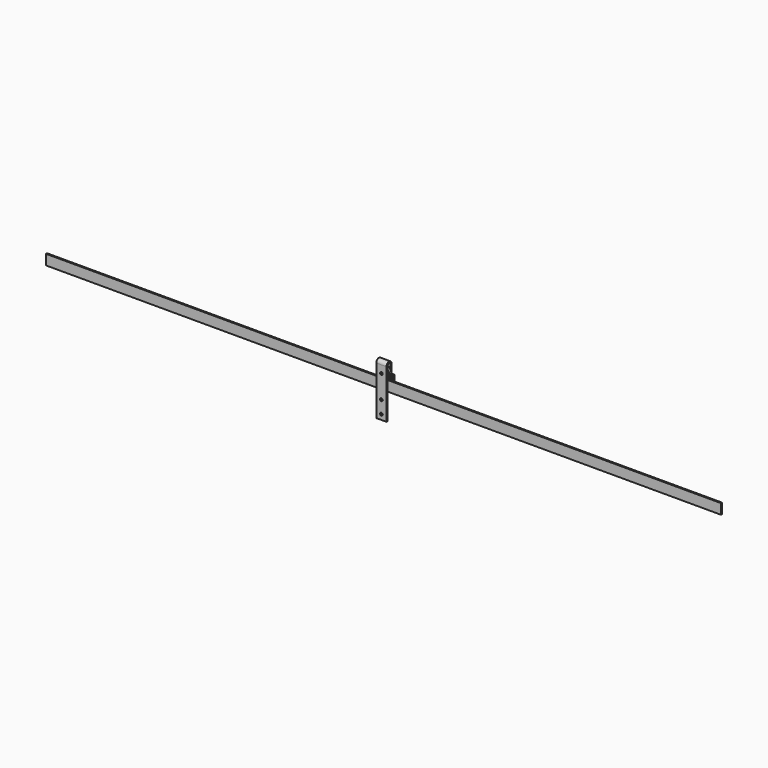
from build123d import *

# Parameters (mm, degrees)
F3_DEPTH = 838.2
F4_DEPTH = 12.7
F5_DEPTH = 12.7
F7_D     = 6.7564
F9_D     = 6.7564


with BuildPart() as f1:
    # F0 (on Right) → F1 (revolve)
    with BuildSketch(Plane.YZ):
        with BuildLine():
            Line((-4.7625, 4.572), (-4.7625, 3.2131))
            Line((-4.7625, 3.2131), (4.7625, 3.2131))
            Line((4.7625, 3.2131), (4.7625, 4.572))
            Line((4.7625, 4.572), (2.9718, 4.572))
            Line((2.9718, 4.572), (2.9718, 8.3439))
            Line((2.9718, 8.3439), (4.1148, 8.3439))
            Line((4.1148, 8.3439), (4.1148, 15.875))
            Line((4.1148, 15.875), (2.9718, 15.875))
            ThreePointArc((2.9718, 15.875), (0, 12.9032), (-2.9718, 15.875))
            Line((-2.9718, 15.875), (-4.1148, 15.875))
            Line((-4.1148, 15.875), (-4.1148, 8.3439))
            Line((-4.1148, 8.3439), (-2.9718, 8.3439))
            Line((-2.9718, 8.3439), (-2.9718, 4.572))
            Line((-2.9718, 4.572), (-4.7625, 4.572))
        make_face()
    revolve(axis=Axis((0, 0.9060123301, 0), (0, 1, 0)))


with BuildPart() as f3:
    # F2 (on Right) → F3 (new body, symmetric)
    with BuildSketch(Plane.YZ):
        Polygon((-1.5875, -38.8874), (1.5875, -38.8874), (1.5875, -34.1249), (1.5875, -30.9499), (1.5875, -13.4874), (-1.5875, -13.4874), align=None)
    extrude(amount=F3_DEPTH, both=True)


with BuildPart() as f4:
    # F2 (on Right) → F4 (new body, symmetric)
    with BuildSketch(Plane.YZ):
        with BuildLine():
            Line((4.8895, 19.05), (4.8895, -25.4))
            Line((4.8895, -25.4), (8.0645, -25.4))
            Line((8.0645, -25.4), (8.0645, 19.05))
            ThreePointArc((8.0645, 19.05), (0, 27.1145), (-8.0645, 19.05))
            Line((-8.0645, 19.05), (-8.0645, -101.6))
            Line((-8.0645, -101.6), (-4.8895, -101.6))
            Line((-4.8895, -101.6), (-4.8895, 19.05))
            ThreePointArc((-4.8895, 19.05), (0, 23.9395), (4.8895, 19.05))
        make_face()
    extrude(amount=F4_DEPTH, both=True)

    # F7 (through all)
    with Locations(Plane.XZ.offset(8.0645)):
        with Locations((0, 0), (0, -57.15), (0, -88.9)):
            Hole(F7_D / 2)


with BuildPart() as f5:
    # F2 (on Right) → F5 (new body, symmetric)
    with BuildSketch(Plane.YZ):
        with BuildLine():
            Line((1.5875, -30.9499), (1.5875, -34.1249))
            Line((1.5875, -34.1249), (17.4625, -34.1249))
            Line((17.4625, -34.1249), (17.4625, -8.7249))
            Line((17.4625, -8.7249), (14.2875, -8.7249))
            Line((14.2875, -8.7249), (14.2875, -27.7749))
            ThreePointArc((14.2875, -27.7749), (13.3575640303, -30.0199640303), (11.1125, -30.9499))
            Line((11.1125, -30.9499), (1.5875, -30.9499))
        make_face()
    extrude(amount=F5_DEPTH, both=True)

    # F9 (through all)
    with Locations(Plane(origin=(0, 17.4625, 0), x_dir=(-1, 0, 0), z_dir=(0, 1, 0))):
        with Locations((0, -18.2499)):
            Hole(F9_D / 2)


solid = Compound([f1.part, f3.part, f4.part, f5.part])
